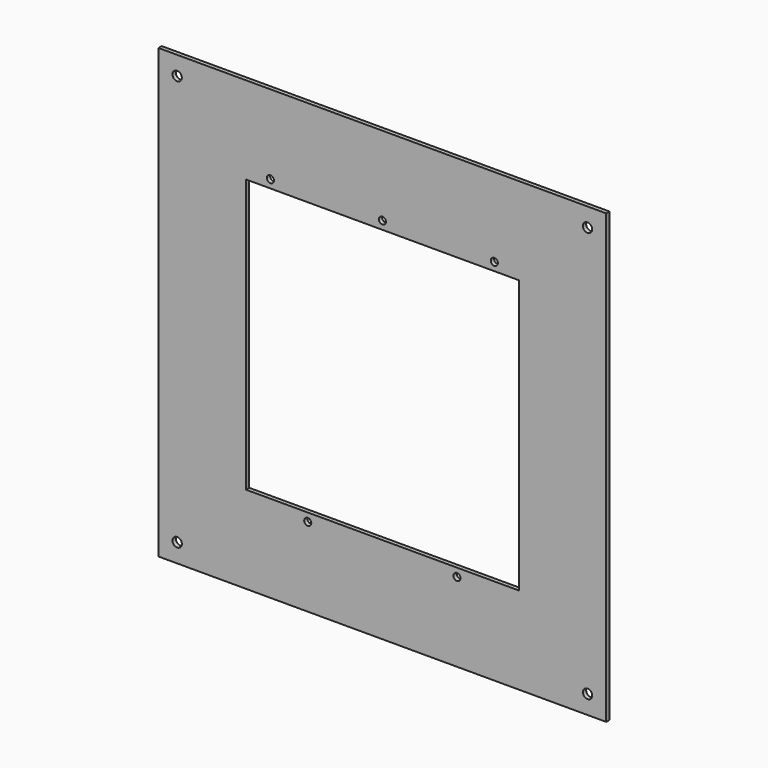
from build123d import *

# Parameters (mm, degrees)
F0_W     = 304.8
F0_H     = 304.8
F0_R     = 3.175
F0_R_2   = 2.413
F0_W_2   = 185.928
F0_H_2   = 185.928
F1_DEPTH = 2.778125


with BuildPart() as f1:
    # F0 (on Front) → F1 (new body)
    with BuildSketch(Plane.XZ):
        Rectangle(F0_W, F0_H)
        with Locations((-139.7, -139.7)):
            Circle(F0_R, mode=Mode.SUBTRACT)
        with Locations((-50.8, -98.552)):
            Circle(F0_R_2, mode=Mode.SUBTRACT)
        with Locations((50.8, -98.552)):
            Circle(F0_R_2, mode=Mode.SUBTRACT)
        with Locations((139.7, -139.7)):
            Circle(F0_R, mode=Mode.SUBTRACT)
        with Locations((-139.7, 139.7)):
            Circle(F0_R, mode=Mode.SUBTRACT)
        with Locations((-76.2, 98.552)):
            Circle(F0_R_2, mode=Mode.SUBTRACT)
        Rectangle(F0_W_2, F0_H_2, mode=Mode.SUBTRACT)
        with Locations((0, 98.552)):
            Circle(F0_R_2, mode=Mode.SUBTRACT)
        with Locations((76.2, 98.552)):
            Circle(F0_R_2, mode=Mode.SUBTRACT)
        with Locations((139.7, 139.7)):
            Circle(F0_R, mode=Mode.SUBTRACT)
    extrude(amount=F1_DEPTH)


solid = f1.part
